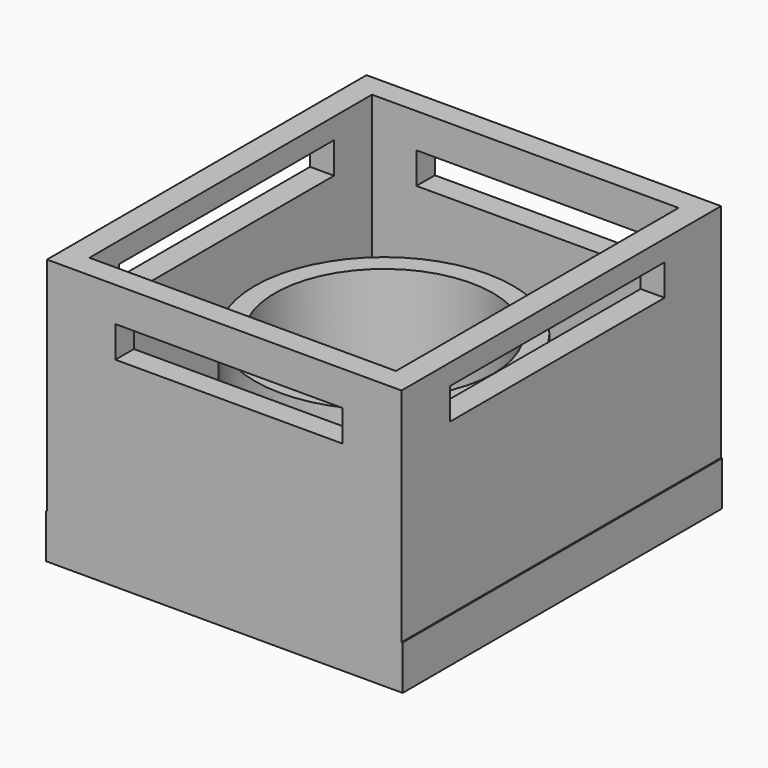
from build123d import *

# Parameters (mm, degrees)
F0_W      = 203.207492
F0_H      = 228.935466
F1_DEPTH  = 152.4
F2_W      = 175.73382
F2_H      = 202.479318
F3_DEPTH  = 1270
F4_W      = 204.225034
F4_H      = 228.935466
F5_DEPTH  = 25.4
F6_R      = 74.025585
F7_DEPTH  = 101.6
F8_R      = 62.584058
F9_DEPTH  = 12700
F10_W     = 204.514414
F10_H     = 227.628558
F11_DEPTH = 25.4
F12_W     = 130.283504
F12_H     = 17.982788
F13_DEPTH = 12700
F14_W     = 153.912366
F14_H     = 17.956443
F15_DEPTH = 127000


with BuildPart() as f1:
    # F0 (on Top) → F1 (new body)
    with BuildSketch(Plane.XY):
        Rectangle(F0_W, F0_H)
    extrude(amount=F1_DEPTH)

    # F2 (on Top) → F3 (cut, symmetric)
    with BuildSketch(Plane.XY):
        Rectangle(F2_W, F2_H)
    extrude(amount=F3_DEPTH, both=True, mode=Mode.SUBTRACT)

    # F4 (on Top) → F5 (join)
    with BuildSketch(Plane.XY):
        Rectangle(F4_W, F4_H)
    extrude(amount=F5_DEPTH)

    # F6 (on Top) → F7 (join)
    with BuildSketch(Plane.XY):
        Circle(F6_R)
    extrude(amount=F7_DEPTH)

    # F8 (on Top) → F9 (cut, symmetric)
    with BuildSketch(Plane.XY):
        Circle(F8_R)
    extrude(amount=F9_DEPTH, both=True, mode=Mode.SUBTRACT)

    # F10 (on Top) → F11 (join)
    with BuildSketch(Plane.XY):
        Rectangle(F10_W, F10_H)
    extrude(amount=F11_DEPTH)

    # F12 (on Front) → F13 (cut, symmetric)
    with BuildSketch(Plane.XZ):
        with Locations((2.752468, 123.610016)):
            Rectangle(F12_W, F12_H)
    extrude(amount=F13_DEPTH, both=True, mode=Mode.SUBTRACT)

    # F14 (on Right) → F15 (cut, symmetric)
    with BuildSketch(Plane.YZ):
        with Locations((-2.931662, 131.546791)):
            Rectangle(F14_W, F14_H)
    extrude(amount=F15_DEPTH, both=True, mode=Mode.SUBTRACT)


solid = f1.part
